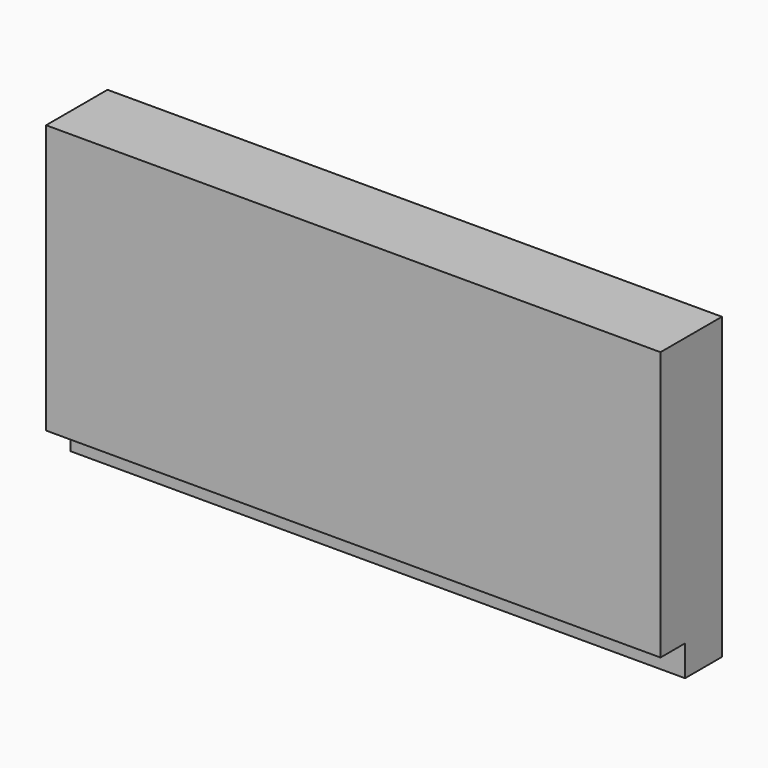
from build123d import *

# Parameters (mm, degrees)
F0_W     = 160
F0_H     = 70
F1_DEPTH = 20
F0_H_2   = 8
F2_DEPTH = 12


with BuildPart() as f1:
    # F0 (on Front) → F1 (new body)
    with BuildSketch(Plane.XZ):
        with Locations((0, 4)):
            Rectangle(F0_W, F0_H)
    extrude(amount=F1_DEPTH)

    # F0 (on Front) → F2 (join)
    with BuildSketch(Plane.XZ):
        with Locations((0, 4)):
            Rectangle(F0_W, F0_H)
        with Locations((0, -35)):
            Rectangle(F0_W, F0_H_2)
    extrude(amount=F2_DEPTH)


solid = f1.part
